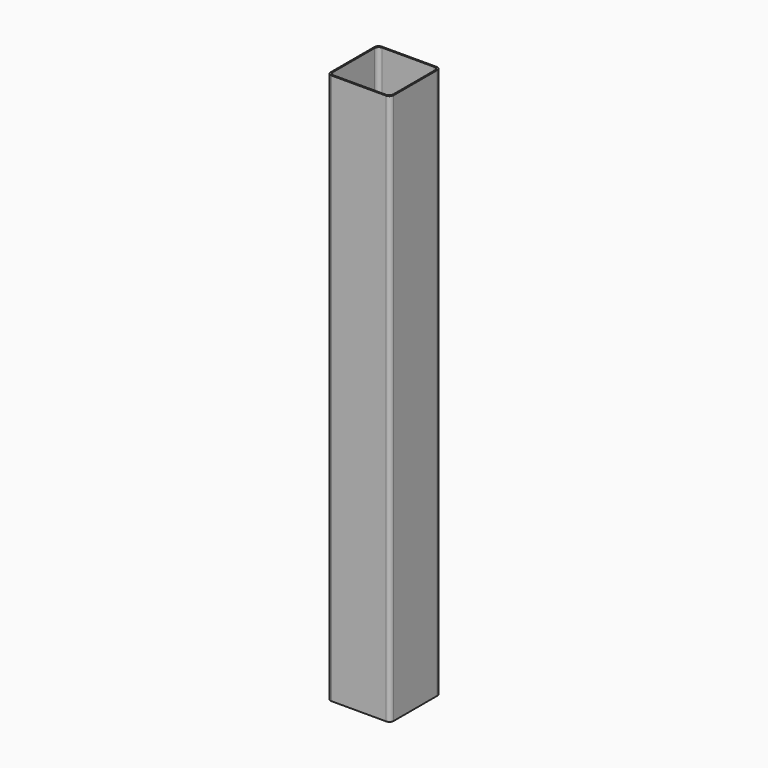
from build123d import *

# Parameters (mm, degrees)
F0_W     = 76.2
F0_H     = 76.2
F0_W_2   = 73.025
F0_H_2   = 73.025
F1_DEPTH = 668.3375
F2_R     = 5.08
F3_R     = 5.08
F4_R     = 5.08
F5_R     = 5.08
F6_R     = 5.08
F7_R     = 5.08


with BuildPart() as f1:
    # F0 (on Top) → F1 (new body)
    with BuildSketch(Plane.XY):
        Rectangle(F0_W, F0_H)
        Rectangle(F0_W_2, F0_H_2, mode=Mode.SUBTRACT)
    extrude(amount=F1_DEPTH)

    # F2
    f2_edges = [f1.edges().sort_by_distance(p)[0] for p in [
        (-38.1, -38.1, 334.16875),
    ]]
    fillet(f2_edges, radius=F2_R)

    # F3
    f3_edges = [f1.edges().sort_by_distance(p)[0] for p in [
        (38.1, -38.1, 334.16875),
        (38.1, 38.1, 334.16875),
    ]]
    fillet(f3_edges, radius=F3_R)

    # F4
    f4_edges = [f1.edges().sort_by_distance(p)[0] for p in [
        (-36.5125, 36.5125, 334.16875),
    ]]
    fillet(f4_edges, radius=F4_R)

    # F5
    f5_edges = [f1.edges().sort_by_distance(p)[0] for p in [
        (-38.1, 38.1, 334.16875),
        (36.5125, -36.5125, 334.16875),
    ]]
    fillet(f5_edges, radius=F5_R)

    # F6
    f6_edges = [f1.edges().sort_by_distance(p)[0] for p in [
        (-36.5125, -36.5125, 334.16875),
    ]]
    fillet(f6_edges, radius=F6_R)

    # F7
    f7_edges = [f1.edges().sort_by_distance(p)[0] for p in [
        (36.5125, 36.5125, 334.16875),
    ]]
    fillet(f7_edges, radius=F7_R)


solid = f1.part
